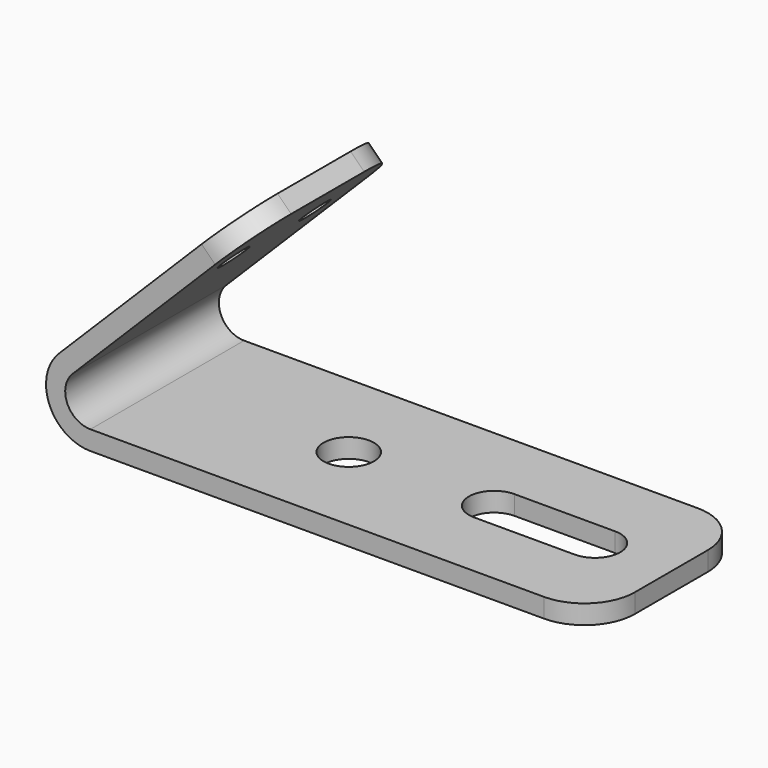
from build123d import *

# Parameters (mm, degrees)
F1_DEPTH = 48.387
F2_R     = 12.7
F4_D     = 7.62
F4_DEPTH = 12.7
F6_D     = 12.7
F6_DEPTH = 12.7
F7_DEPTH = 63.980906


with BuildPart() as f1:
    # F0 (on Front) → F1 (new body)
    with BuildSketch(Plane.XZ):
        with BuildLine():
            Line((-49.206674, 0), (77.793326, 0))
            Line((77.793326, 0), (77.793327, 4.826))
            Line((77.793327, 4.826), (-49.206673, 4.826))
            ThreePointArc((-49.206673, 4.826), (-55.073309, 8.74596), (-53.696802, 15.666128))
            Line((-53.696802, 15.666128), (-8.795522, 60.567409))
            Line((-8.795522, 60.567409), (-12.208019, 63.979906))
            Line((-12.208019, 63.979906), (-57.1093, 19.078625))
            ThreePointArc((-57.1093, 19.078625), (-59.531952, 6.89913), (-49.206674, 0))
        make_face()
    extrude(amount=-F1_DEPTH)

    # F2
    f2_edges = [f1.edges().sort_by_distance(p)[0] for p in [
        (-10.50177, 48.387, 62.273657),
        (-10.50177, 0, 62.273657),
        (77.793327, 0, 2.413),
        (77.793327, 48.387, 2.413),
    ]]
    fillet(f2_edges, radius=F2_R)

    # F4
    with Locations(Plane(origin=(-38.093962, 0, 38.093962), x_dir=(0, -1, 0), z_dir=(-0.707107, 0, 0.707107))):
        with Locations((-36.957, 17.558252), (-11.43, 17.558252)):
            Hole(F4_D / 2, depth=F4_DEPTH)

    # F6
    with Locations(Plane(origin=(0, 0, 0), x_dir=(1, 0, 0), z_dir=(0, 0, -1))):
        with Locations((-3.486674, -24.1935)):
            Hole(F6_D / 2, depth=F6_DEPTH)

    # F5 (on face) → F7 (cut, through all)
    with BuildSketch(Plane(origin=(0, 0, 0), x_dir=(1, 0, 0), z_dir=(0, 0, -1))):
        with BuildLine():
            Line((58.554438, -17.8435), (33.154438, -17.8435))
            ThreePointArc((33.154438, -17.8435), (26.804438, -24.1935), (33.154438, -30.5435))
            Line((33.154438, -30.5435), (58.554438, -30.5435))
            ThreePointArc((58.554438, -30.5435), (64.904438, -24.1935), (58.554438, -17.8435))
        make_face()
    extrude(amount=-F7_DEPTH, mode=Mode.SUBTRACT)


solid = f1.part
